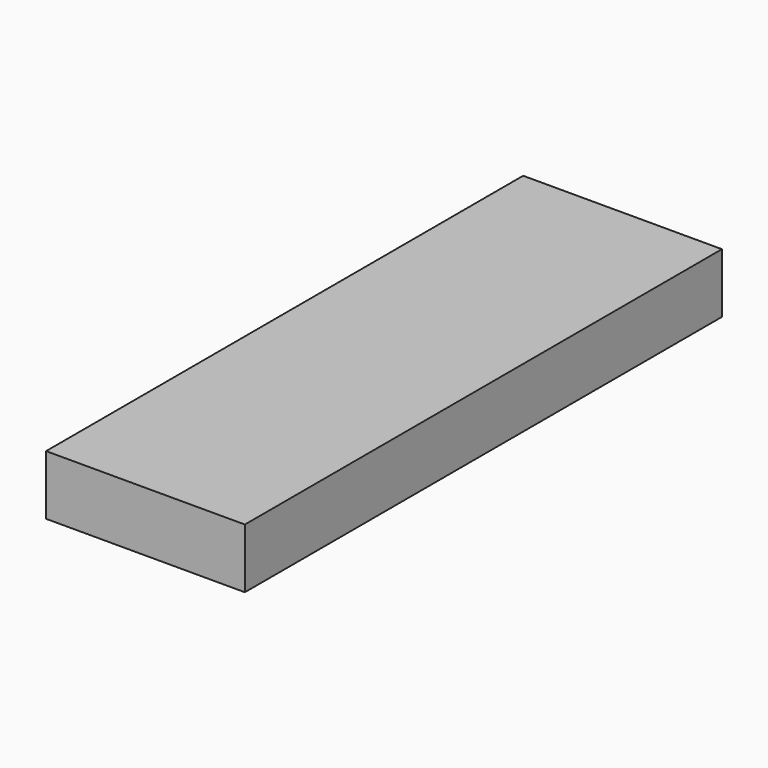
from build123d import *

# Parameters (mm, degrees)
F0_W     = 25.4
F0_H     = 76.2
F1_DEPTH = 7.62
F2_R     = 6.35
F3_DEPTH = 5.08
F4_R     = 3.81
F5_DEPTH = 5.08


with BuildPart() as f1:
    # F0 (on Top) → F1 (new body)
    with BuildSketch(Plane.XY):
        with Locations((-3.308222, 10.889477)):
            Rectangle(F0_W, F0_H)
    extrude(amount=F1_DEPTH)

    # F2 (on face) → F3 (cut)
    with BuildSketch(Plane(origin=(0, 0, 0), x_dir=(1, 0, 0), z_dir=(0, 0, -1))):
        with Locations((-3.308222, 14.510523)):
            Circle(F2_R)
    extrude(amount=-F3_DEPTH, mode=Mode.SUBTRACT)

    # F4 (on face) → F5 (cut)
    with BuildSketch(Plane(origin=(0, 0, 0), x_dir=(1, 0, 0), z_dir=(0, 0, -1))):
        with Locations((-9.658222, -42.639477)):
            Circle(F4_R)
    extrude(amount=-F5_DEPTH, mode=Mode.SUBTRACT)


solid = f1.part
